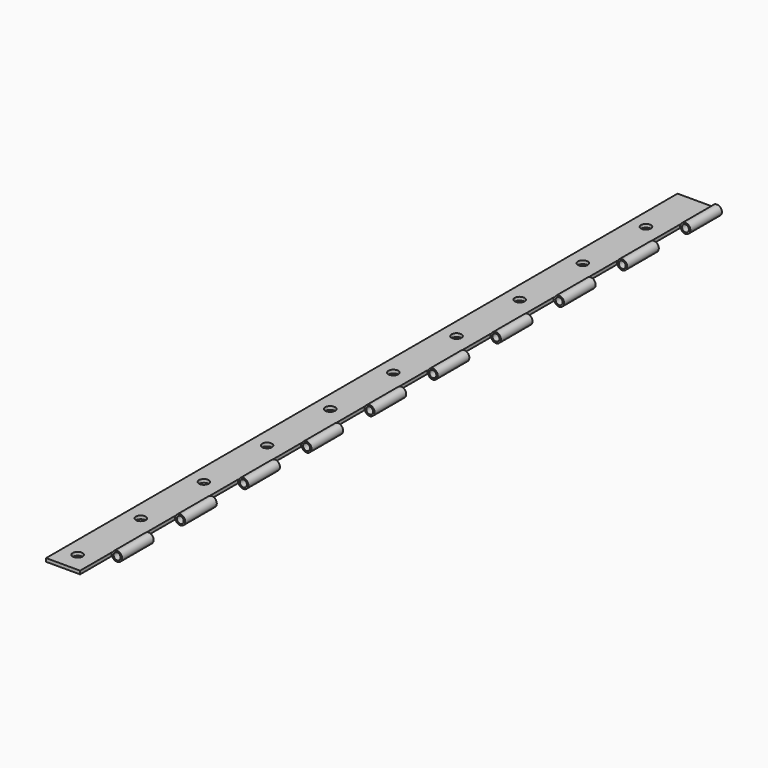
from build123d import *

# Parameters (mm, degrees)
F0_R     = 1.11125
F1_DEPTH = 254
F2_W     = 3.7465
F2_H     = 12.7
F3_DEPTH = 12.7
F4_R     = 1.5875
F5_DEPTH = 25.4


with BuildPart() as f1:
    # F0 (on Front) → F1 (new body)
    with BuildSketch(Plane.XZ):
        with BuildLine():
            Line((0, 1.0668), (0, 0))
            Line((0, 0), (11.204794, 0))
            ThreePointArc((11.204794, 0), (14.2875, 0.5334), (11.204794, 1.0668))
            Line((11.204794, 1.0668), (0, 1.0668))
        make_face()
        with Locations((12.7, 0.5334)):
            Circle(F0_R, mode=Mode.SUBTRACT)
    extrude(amount=F1_DEPTH)

    # F2 (on face) → F3 (cut, symmetric)
    with BuildSketch(Plane.XY.offset(1.0668)):
        with Locations((12.824044, -247.65)):
            Rectangle(F2_W, F2_H)
        with Locations((12.824044, -222.25)):
            Rectangle(F2_W, F2_H)
        with Locations((12.824044, -196.85)):
            Rectangle(F2_W, F2_H)
        with Locations((12.824044, -171.45)):
            Rectangle(F2_W, F2_H)
        with Locations((12.824044, -146.05)):
            Rectangle(F2_W, F2_H)
        with Locations((12.824044, -120.65)):
            Rectangle(F2_W, F2_H)
        with Locations((12.824044, -95.25)):
            Rectangle(F2_W, F2_H)
        with Locations((12.824044, -69.85)):
            Rectangle(F2_W, F2_H)
        with Locations((12.824044, -44.45)):
            Rectangle(F2_W, F2_H)
        with Locations((12.824044, -19.05)):
            Rectangle(F2_W, F2_H)
    extrude(amount=F3_DEPTH, both=True, mode=Mode.SUBTRACT)

    # F4 (on face) → F5 (cut)
    with BuildSketch(Plane.XY.offset(1.0668)):
        with Locations((5.08, -247.65)):
            Circle(F4_R)
        with Locations((5.08, -222.25)):
            Circle(F4_R)
        with Locations((5.08, -196.85)):
            Circle(F4_R)
        with Locations((5.08, -171.45)):
            Circle(F4_R)
        with Locations((5.08, -146.05)):
            Circle(F4_R)
        with Locations((5.08, -120.65)):
            Circle(F4_R)
        with Locations((5.08, -95.25)):
            Circle(F4_R)
        with Locations((5.08, -69.85)):
            Circle(F4_R)
        with Locations((5.08, -44.45)):
            Circle(F4_R)
        with Locations((5.08, -19.05)):
            Circle(F4_R)
    extrude(amount=-F5_DEPTH, mode=Mode.SUBTRACT)


solid = f1.part
